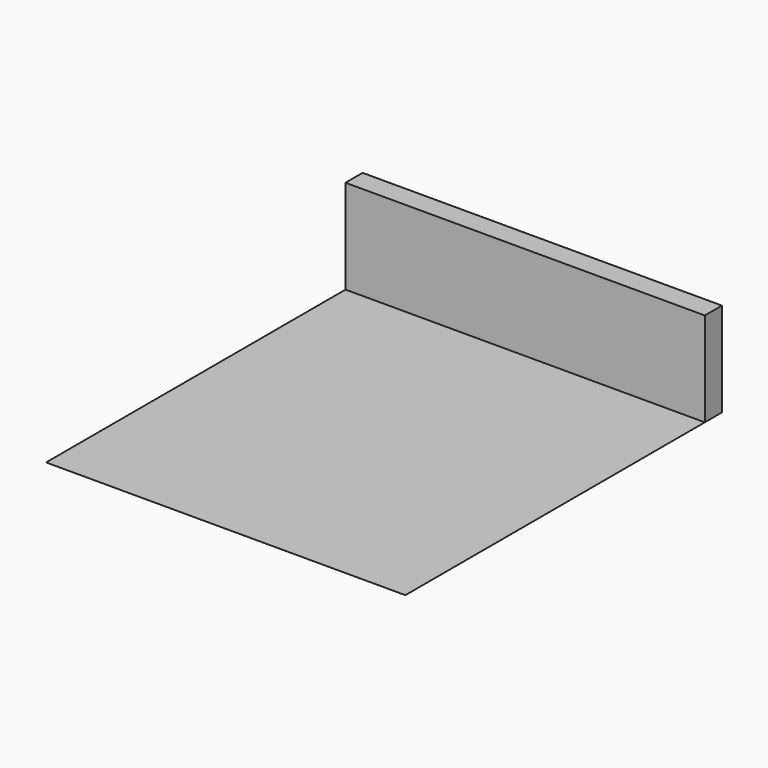
from build123d import *

# Parameters (mm, degrees)
F0_W     = 4267.2
F0_H     = 1117.6
F1_DEPTH = 254
F2_W     = 4267.2
F2_H     = 4445
F3_DEPTH = 0.0254


with BuildPart() as f1:
    # F0 (on Front) → F1 (new body)
    with BuildSketch(Plane.XZ):
        with Locations((2133.6, 558.8)):
            Rectangle(F0_W, F0_H)
    extrude(amount=-F1_DEPTH)

    # F2 (on Top) → F3 (join)
    with BuildSketch(Plane.XY):
        with Locations((2133.6, -2222.5)):
            Rectangle(F2_W, F2_H)
    extrude(amount=F3_DEPTH)


solid = f1.part
